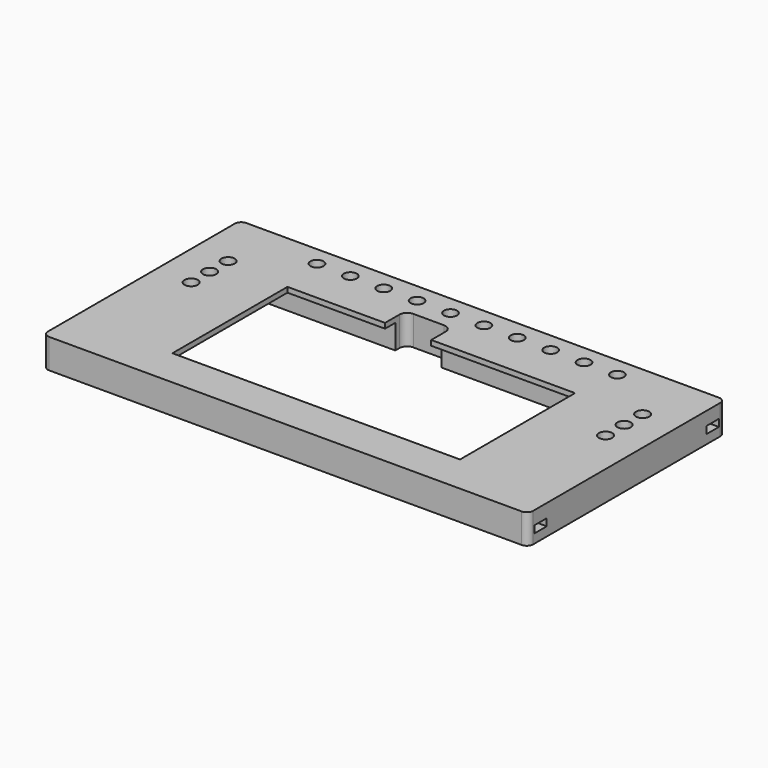
from build123d import *

# Parameters (mm, degrees)
SKETCH011_W     = 189
SKETCH011_H     = 96
SKETCH011_W_2   = 112
SKETCH011_H_2   = 56
PAD010_DEPTH    = 2
SKETCH012_W     = 189
SKETCH012_H     = 96
PAD011_DEPTH    = 9.5
SKETCH013_R     = 1.7
POCKET_DEPTH    = 9
SKETCH014_W     = 6
SKETCH014_H     = 2.8
POCKET001_DEPTH = 12
SKETCH015_W     = 6
SKETCH015_H     = 2.8
POCKET002_DEPTH = 12
SKETCH016_W     = 18
SKETCH016_H     = 10
POCKET003_DEPTH = 11.501
SKETCH017_R     = 2.55
SKETCH017_R_2   = 2.6
POCKET004_DEPTH = 11.501
FILLET_R        = 2.5
FILLET005_R     = 5
FILLET006_R     = 1
POCKET005_DEPTH = 3.5
FILLET007_R     = 3


with BuildPart() as part:
    # Sketch011 → Pad010 (new body)
    with BuildSketch(Plane.XY):
        with Locations((0, 5)):
            Rectangle(SKETCH011_W, SKETCH011_H)
        Rectangle(SKETCH011_W_2, SKETCH011_H_2, mode=Mode.SUBTRACT)
    extrude(amount=PAD010_DEPTH)

    # Sketch012 (on Face9 of Pad010) → Pad011 (join)
    with BuildSketch(Plane(origin=(0, 0, 0), x_dir=(1, 0, 0), z_dir=(0, 0, -1))):
        with Locations((0, -5)):
            Rectangle(SKETCH012_W, SKETCH012_H)
        Polygon((-71, 41), (76, 41), (76, -33), (-71, -33), (-71, -7), (-82.050253, -7), (-87, -11.949747), (-87, -34), (-92, -34), (-92, 12), (-71, 12), align=None, mode=Mode.SUBTRACT)
    extrude(amount=PAD011_DEPTH)

    # Sketch013 (on Face9 of Pad011) → Pocket (cut)
    with BuildSketch(Plane(origin=(0, 0, -9.5), x_dir=(1, 0, 0), z_dir=(0, 0, -1))):
        with Locations((-86.5, 37)):
            Circle(SKETCH013_R)
        with Locations((-86.5, -47)):
            Circle(SKETCH013_R)
        with Locations((86.5, 37)):
            Circle(SKETCH013_R)
        with Locations((86.5, -47)):
            Circle(SKETCH013_R)
    extrude(amount=-POCKET_DEPTH, mode=Mode.SUBTRACT)

    # Sketch014 (on Face7 of Pocket) → Pocket001 (cut)
    with BuildSketch(Plane(origin=(-94.5, 0, 0), x_dir=(0, -1, 0), z_dir=(-1, 0, 0))):
        with Locations((36.9, -4.6)):
            Rectangle(SKETCH014_W, SKETCH014_H)
        with Locations((-46.9, -4.6)):
            Rectangle(SKETCH014_W, SKETCH014_H)
    extrude(amount=-POCKET001_DEPTH, mode=Mode.SUBTRACT)

    # Sketch015 (on Face8 of Pocket001) → Pocket002 (cut)
    with BuildSketch(Plane.YZ.offset(94.5)):
        with Locations((-36.9, -4.6)):
            Rectangle(SKETCH015_W, SKETCH015_H)
        with Locations((46.9, -4.6)):
            Rectangle(SKETCH015_W, SKETCH015_H)
    extrude(amount=-POCKET002_DEPTH, mode=Mode.SUBTRACT)

    # Sketch016 (on Face9 of Pocket002) → Pocket003 (cut, through all)
    with BuildSketch(Plane(origin=(0, 0, -9.5), x_dir=(1, 0, 0), z_dir=(0, 0, -1))):
        with Locations((-9, -33)):
            Rectangle(SKETCH016_W, SKETCH016_H)
    extrude(amount=-POCKET003_DEPTH, mode=Mode.SUBTRACT)

    # Sketch017 (on Face9 of Pocket003) → Pocket004 (cut, through all)
    with BuildSketch(Plane(origin=(0, 0, -9.5), x_dir=(1, 0, 0), z_dir=(0, 0, -1))):
        with Locations((-58.5, -45.5)):
            Circle(SKETCH017_R)
        with Locations((-45.5, -45.5)):
            Circle(SKETCH017_R)
        with Locations((-32.5, -45.5)):
            Circle(SKETCH017_R)
        with Locations((-19.5, -45.5)):
            Circle(SKETCH017_R)
        with Locations((-6.5, -45.5)):
            Circle(SKETCH017_R)
        with Locations((6.5, -45.5)):
            Circle(SKETCH017_R)
        with Locations((19.5, -45.5)):
            Circle(SKETCH017_R)
        with Locations((32.5, -45.5)):
            Circle(SKETCH017_R)
        with Locations((45.5, -45.5)):
            Circle(SKETCH017_R)
        with Locations((58.5, -45.5)):
            Circle(SKETCH017_R)
        with Locations((-80.7, -12)):
            Circle(SKETCH017_R_2)
        with Locations((-80.7, -21)):
            Circle(SKETCH017_R_2)
        with Locations((-80.7, -30)):
            Circle(SKETCH017_R_2)
        with Locations((80.7, -12)):
            Circle(SKETCH017_R_2)
        with Locations((80.7, -21)):
            Circle(SKETCH017_R_2)
        with Locations((80.7, -30)):
            Circle(SKETCH017_R_2)
    extrude(amount=-POCKET004_DEPTH, mode=Mode.SUBTRACT)

    # Fillet
    fillet_edges = [part.edges().sort_by_distance(p)[0] for p in [
        (-94.5, 53, -4.75),
        (-94.5, -43, -4.75),
        (94.5, -43, -4.75),
        (94.5, 53, -4.75),
    ]]
    fillet(fillet_edges, radius=FILLET_R)

    # Fillet005
    fillet005_edges = [part.edges().sort_by_distance(p)[0] for p in [
        (76, -41, -4.75),
    ]]
    fillet(fillet005_edges, radius=FILLET005_R)

    # Fillet006
    fillet006_edges = [part.edges().sort_by_distance(p)[0] for p in [
        (83.3, 30, -3.75),
        (-78.1, 12, -3.75),
        (35.05, 45.5, -3.75),
        (83.3, 21, -3.75),
        (48.05, 45.5, -3.75),
        (-78.1, 30, -3.75),
        (-78.1, 21, -3.75),
        (-71, -41, -4.75),
    ]]
    fillet(fillet006_edges, radius=FILLET006_R)

    # Sketch018 (on Face1 of Fillet006) → Pocket005 (cut)
    with BuildSketch(Plane(origin=(0, 0, -9.5), x_dir=(1, 0, 0), z_dir=(0, 0, -1))):
        Polygon((-87, -5), (-87, -35.5), (-72.5, -50), (72.5, -50), (87, -35.5), (87, -5), (70, -5), (70, -39), (-70, -39), (-70, -5), align=None)
    extrude(amount=-POCKET005_DEPTH, mode=Mode.SUBTRACT)

    # Fillet007
    fillet007_edges = [part.edges().sort_by_distance(p)[0] for p in [
        (-18, 38, -3.75),
        (0, 38, -3.75),
    ]]
    fillet(fillet007_edges, radius=FILLET007_R)


with BuildPart() as part_1:
    # Body007 placement: moved
    add(part.part.moved(Location((0, 82, 15))))


solid = part_1.part
